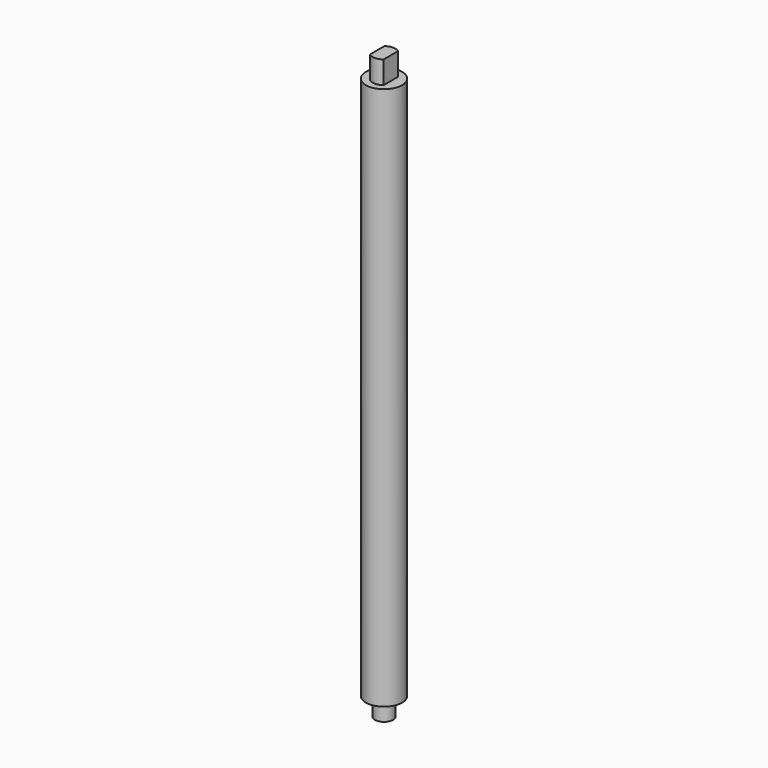
from build123d import *

# Parameters (mm, degrees)
F0_R     = 12.7
F1_DEPTH = 381
F3_DEPTH = 15.875
F4_R     = 6.35
F5_DEPTH = 12.7


with BuildPart() as f1:
    # F0 (on Top) → F1 (new body)
    with BuildSketch(Plane.XY):
        Circle(F0_R)
    extrude(amount=F1_DEPTH)

    # F2 (on face) → F3 (join)
    with BuildSketch(Plane.XY.offset(381)):
        with BuildLine():
            ThreePointArc((-4.7625, -6.35), (0, -7.9375), (4.7625, -6.35))
            Line((4.7625, -6.35), (-4.7625, -6.35))
        make_face()
        Polygon((4.7625, 0), (4.7625, 6.35), (-4.7625, 6.35), (-4.7625, 0), (-4.7625, -6.35), (4.7625, -6.35), align=None)
        with BuildLine():
            Line((-4.7625, 6.35), (4.7625, 6.35))
            ThreePointArc((4.7625, 6.35), (0, 7.9375), (-4.7625, 6.35))
        make_face()
    extrude(amount=F3_DEPTH)

    # F4 (on face) → F5 (join)
    with BuildSketch(Plane(origin=(0, 0, 0), x_dir=(1, 0, 0), z_dir=(0, 0, -1))):
        Circle(F4_R)
    extrude(amount=F5_DEPTH)


solid = f1.part
